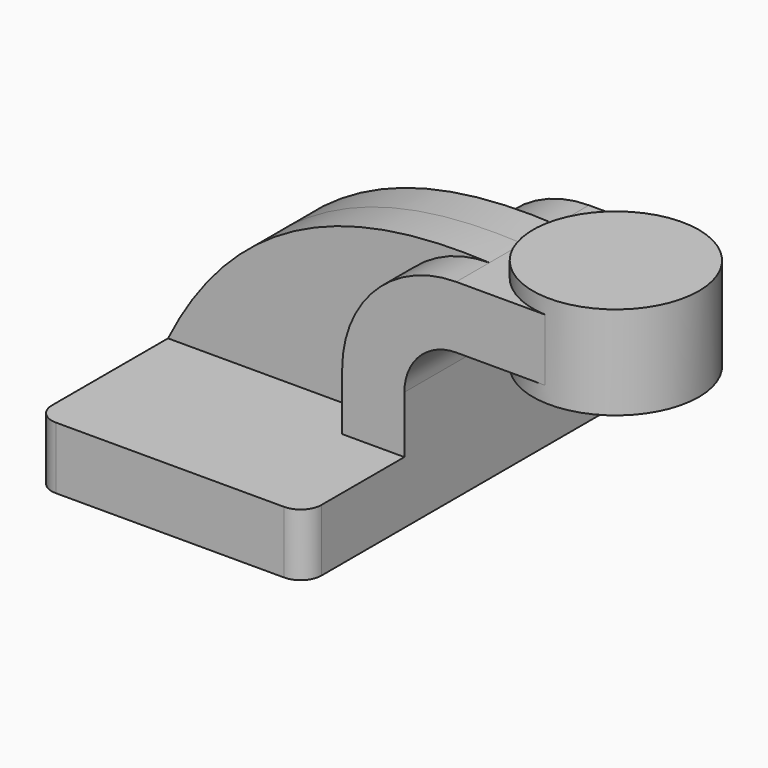
from build123d import *

# Parameters (mm, degrees)
F1_DEPTH = 63.5
F0_W     = 23.975106
F0_H     = 19.05
F2_DEPTH = 25.4
F3_DEPTH = 12.7
F5_R     = 6.35


with BuildPart() as f1:
    # F0 (on Front) → F1 (new body, symmetric)
    with BuildSketch(Plane.XZ):
        Polygon((-41.275, 9.525), (-41.275, -9.525), (41.275, -9.525), (41.275, 9.525), (22.225, 9.525), align=None)
    extrude(amount=F1_DEPTH, both=True)

    # F0 (on Front) → F2 (join, symmetric)
    with BuildSketch(Plane.XZ):
        with BuildLine():
            Line((22.225, 9.525), (41.275, 9.525))
            Line((41.275, 9.525), (41.275, 27.0002))
            ThreePointArc((41.275, 27.0002), (45.92468, 38.22552), (57.15, 42.8752))
            Line((57.15, 42.8752), (60.325, 42.8752))
            Line((60.325, 42.8752), (60.325, 61.9252))
            Line((60.325, 61.9252), (57.15, 61.9252))
            ThreePointArc((57.15, 61.9252), (32.454296, 51.695904), (22.225, 27.0002))
            Line((22.225, 27.0002), (22.225, 9.525))
        make_face()
        with Locations((72.312553, 52.4002)):
            Rectangle(F0_W, F0_H)
    extrude(amount=F2_DEPTH, both=True)

    # F0 (on Front) → F3 (join, symmetric)
    with BuildSketch(Plane.XZ):
        with BuildLine():
            add(Edge.make_bspline(
                [(-41.275, 9.525), (-18.111696, 56.123264), (21.593637, 63.694689), (57.15, 61.9252)],
                knots=[0, 0, 0, 0, 111.504536, 111.504536, 111.504536, 111.504536], degree=3))
            Line((-41.275, 9.525), (22.225, 9.525))
            Line((22.225, 9.525), (22.225, 27.0002))
            ThreePointArc((22.225, 27.0002), (32.454296, 51.695904), (57.15, 61.9252))
        make_face()
    extrude(amount=F3_DEPTH, both=True)

    # F0 (on Front) → F4 (revolve)
    with BuildSketch(Plane.XZ):
        Polygon((111.125, 66.675), (85.725, 66.675), (85.725, 52.3875), (85.725, 38.1), (111.125, 38.1), align=None)
    revolve(axis=Axis((85.725, 0, 61.228485), (0, 0, 1)))

    # F5
    f5_edges = [f1.edges().sort_by_distance(p)[0] for p in [
        (41.275, -63.5, 0),
        (-41.275, -63.5, 0),
        (41.275, 63.5, 0),
        (-41.275, 63.5, 0),
    ]]
    fillet(f5_edges, radius=F5_R)


solid = f1.part
